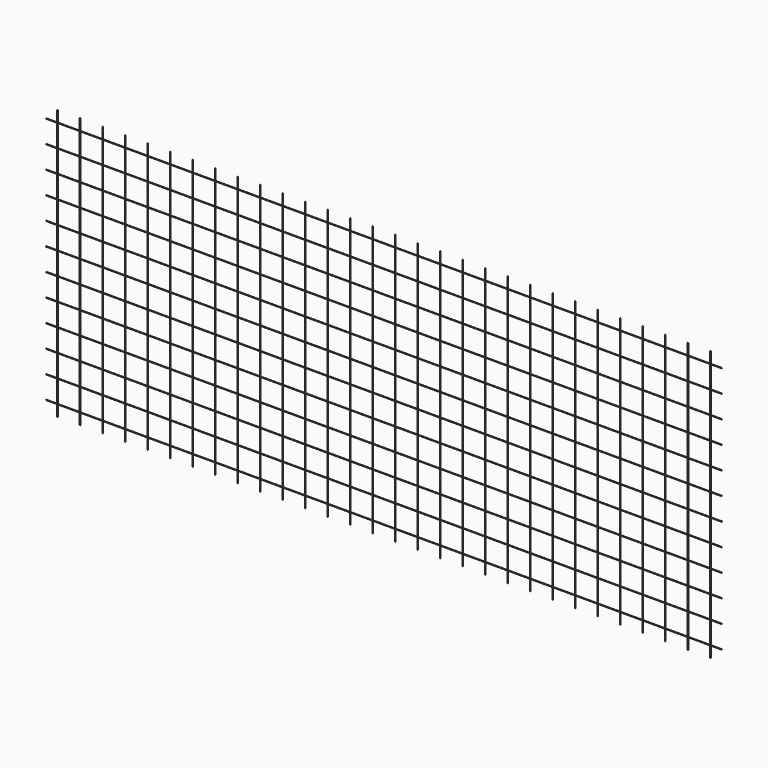
from build123d import *

# Parameters (mm, degrees)
F0_R          = 2
F1_DEPTH      = 2400
F2_R          = 2
F3_DEPTH      = 100
F3_DEPTH_BACK = 5900


with BuildPart() as f1:
    # F0 (on Top) → F1 (new body)
    with BuildSketch(Plane.XY):
        Circle(F0_R)
    extrude(amount=F1_DEPTH)



with BuildPart() as f1b:
    # F0 (on Top) → F1, piece 2 (new body)
    with BuildSketch(Plane.XY):
        with Locations((200, 0)):
            Circle(F0_R)
    extrude(amount=F1_DEPTH)


with BuildPart() as f1c:
    # F0 (on Top) → F1, piece 3 (new body)
    with BuildSketch(Plane.XY):
        with Locations((400, 0)):
            Circle(F0_R)
    extrude(amount=F1_DEPTH)


with BuildPart() as f1d:
    # F0 (on Top) → F1, piece 4 (new body)
    with BuildSketch(Plane.XY):
        with Locations((600, 0)):
            Circle(F0_R)
    extrude(amount=F1_DEPTH)


with BuildPart() as f1e:
    # F0 (on Top) → F1, piece 5 (new body)
    with BuildSketch(Plane.XY):
        with Locations((800, 0)):
            Circle(F0_R)
    extrude(amount=F1_DEPTH)


with BuildPart() as f1f:
    # F0 (on Top) → F1, piece 6 (new body)
    with BuildSketch(Plane.XY):
        with Locations((1000, 0)):
            Circle(F0_R)
    extrude(amount=F1_DEPTH)


with BuildPart() as f1g:
    # F0 (on Top) → F1, piece 7 (new body)
    with BuildSketch(Plane.XY):
        with Locations((1200, 0)):
            Circle(F0_R)
    extrude(amount=F1_DEPTH)


with BuildPart() as f1h:
    # F0 (on Top) → F1, piece 8 (new body)
    with BuildSketch(Plane.XY):
        with Locations((1400, 0)):
            Circle(F0_R)
    extrude(amount=F1_DEPTH)


with BuildPart() as f1i:
    # F0 (on Top) → F1, piece 9 (new body)
    with BuildSketch(Plane.XY):
        with Locations((1600, 0)):
            Circle(F0_R)
    extrude(amount=F1_DEPTH)


with BuildPart() as f1j:
    # F0 (on Top) → F1, piece 10 (new body)
    with BuildSketch(Plane.XY):
        with Locations((1800, 0)):
            Circle(F0_R)
    extrude(amount=F1_DEPTH)


with BuildPart() as f1k:
    # F0 (on Top) → F1, piece 11 (new body)
    with BuildSketch(Plane.XY):
        with Locations((2000, 0)):
            Circle(F0_R)
    extrude(amount=F1_DEPTH)


with BuildPart() as f1l:
    # F0 (on Top) → F1, piece 12 (new body)
    with BuildSketch(Plane.XY):
        with Locations((2200, 0)):
            Circle(F0_R)
    extrude(amount=F1_DEPTH)


with BuildPart() as f1m:
    # F0 (on Top) → F1, piece 13 (new body)
    with BuildSketch(Plane.XY):
        with Locations((2400, 0)):
            Circle(F0_R)
    extrude(amount=F1_DEPTH)


with BuildPart() as f1n:
    # F0 (on Top) → F1, piece 14 (new body)
    with BuildSketch(Plane.XY):
        with Locations((2600, 0)):
            Circle(F0_R)
    extrude(amount=F1_DEPTH)


with BuildPart() as f1o:
    # F0 (on Top) → F1, piece 15 (new body)
    with BuildSketch(Plane.XY):
        with Locations((2800, 0)):
            Circle(F0_R)
    extrude(amount=F1_DEPTH)


with BuildPart() as f1p:
    # F0 (on Top) → F1, piece 16 (new body)
    with BuildSketch(Plane.XY):
        with Locations((3000, 0)):
            Circle(F0_R)
    extrude(amount=F1_DEPTH)


with BuildPart() as f1q:
    # F0 (on Top) → F1, piece 17 (new body)
    with BuildSketch(Plane.XY):
        with Locations((3200, 0)):
            Circle(F0_R)
    extrude(amount=F1_DEPTH)


with BuildPart() as f1r:
    # F0 (on Top) → F1, piece 18 (new body)
    with BuildSketch(Plane.XY):
        with Locations((3400, 0)):
            Circle(F0_R)
    extrude(amount=F1_DEPTH)


with BuildPart() as f1s:
    # F0 (on Top) → F1, piece 19 (new body)
    with BuildSketch(Plane.XY):
        with Locations((3600, 0)):
            Circle(F0_R)
    extrude(amount=F1_DEPTH)


with BuildPart() as f1t:
    # F0 (on Top) → F1, piece 20 (new body)
    with BuildSketch(Plane.XY):
        with Locations((3800, 0)):
            Circle(F0_R)
    extrude(amount=F1_DEPTH)


with BuildPart() as f1u:
    # F0 (on Top) → F1, piece 21 (new body)
    with BuildSketch(Plane.XY):
        with Locations((4000, 0)):
            Circle(F0_R)
    extrude(amount=F1_DEPTH)


with BuildPart() as f1v:
    # F0 (on Top) → F1, piece 22 (new body)
    with BuildSketch(Plane.XY):
        with Locations((4200, 0)):
            Circle(F0_R)
    extrude(amount=F1_DEPTH)


with BuildPart() as f1w:
    # F0 (on Top) → F1, piece 23 (new body)
    with BuildSketch(Plane.XY):
        with Locations((4400, 0)):
            Circle(F0_R)
    extrude(amount=F1_DEPTH)


with BuildPart() as f1x:
    # F0 (on Top) → F1, piece 24 (new body)
    with BuildSketch(Plane.XY):
        with Locations((4600, 0)):
            Circle(F0_R)
    extrude(amount=F1_DEPTH)


with BuildPart() as f1y:
    # F0 (on Top) → F1, piece 25 (new body)
    with BuildSketch(Plane.XY):
        with Locations((4800, 0)):
            Circle(F0_R)
    extrude(amount=F1_DEPTH)


with BuildPart() as f1z:
    # F0 (on Top) → F1, piece 26 (new body)
    with BuildSketch(Plane.XY):
        with Locations((5000, 0)):
            Circle(F0_R)
    extrude(amount=F1_DEPTH)


with BuildPart() as f1ba:
    # F0 (on Top) → F1, piece 27 (new body)
    with BuildSketch(Plane.XY):
        with Locations((5200, 0)):
            Circle(F0_R)
    extrude(amount=F1_DEPTH)


with BuildPart() as f1bb:
    # F0 (on Top) → F1, piece 28 (new body)
    with BuildSketch(Plane.XY):
        with Locations((5400, 0)):
            Circle(F0_R)
    extrude(amount=F1_DEPTH)


with BuildPart() as f1bc:
    # F0 (on Top) → F1, piece 29 (new body)
    with BuildSketch(Plane.XY):
        with Locations((5600, 0)):
            Circle(F0_R)
    extrude(amount=F1_DEPTH)


with BuildPart() as f1bd:
    # F0 (on Top) → F1, piece 30 (new body)
    with BuildSketch(Plane.XY):
        with Locations((5800, 0)):
            Circle(F0_R)
    extrude(amount=F1_DEPTH)


with BuildPart() as f1_1:
    add(f1.part)

    add(f1b.part)  # F3 merges F1b

    add(f1c.part)  # F3 merges F1c

    add(f1d.part)  # F3 merges F1d

    add(f1e.part)  # F3 merges F1e

    add(f1f.part)  # F3 merges F1f

    add(f1g.part)  # F3 merges F1g

    add(f1h.part)  # F3 merges F1h

    add(f1i.part)  # F3 merges F1i

    add(f1j.part)  # F3 merges F1j

    add(f1k.part)  # F3 merges F1k

    add(f1l.part)  # F3 merges F1l

    add(f1m.part)  # F3 merges F1m

    add(f1n.part)  # F3 merges F1n

    add(f1o.part)  # F3 merges F1o

    add(f1p.part)  # F3 merges F1p

    add(f1q.part)  # F3 merges F1q

    add(f1r.part)  # F3 merges F1r

    add(f1s.part)  # F3 merges F1s

    add(f1t.part)  # F3 merges F1t

    add(f1u.part)  # F3 merges F1u

    add(f1v.part)  # F3 merges F1v

    add(f1w.part)  # F3 merges F1w

    add(f1x.part)  # F3 merges F1x

    add(f1y.part)  # F3 merges F1y

    add(f1z.part)  # F3 merges F1z

    add(f1ba.part)  # F3 merges F1ba

    add(f1bb.part)  # F3 merges F1bb

    add(f1bc.part)  # F3 merges F1bc

    add(f1bd.part)  # F3 merges F1bd
    # F2 (on Right) → F3 (join, two sides)
    with BuildSketch(Plane.YZ) as f3_sk:
        with Locations((0, 100)):
            Circle(F2_R)
        with Locations((0, 300)):
            Circle(F2_R)
        with Locations((0, 500)):
            Circle(F2_R)
        with Locations((0, 700)):
            Circle(F2_R)
        with Locations((0, 900)):
            Circle(F2_R)
        with Locations((0, 1100)):
            Circle(F2_R)
        with Locations((0, 1300)):
            Circle(F2_R)
        with Locations((0, 1500)):
            Circle(F2_R)
        with Locations((0, 1700)):
            Circle(F2_R)
        with Locations((0, 1900)):
            Circle(F2_R)
        with Locations((0, 2100)):
            Circle(F2_R)
        with Locations((0, 2300)):
            Circle(F2_R)
    extrude(amount=-F3_DEPTH)
    extrude(f3_sk.sketch, amount=F3_DEPTH_BACK)


solid = f1_1.part
